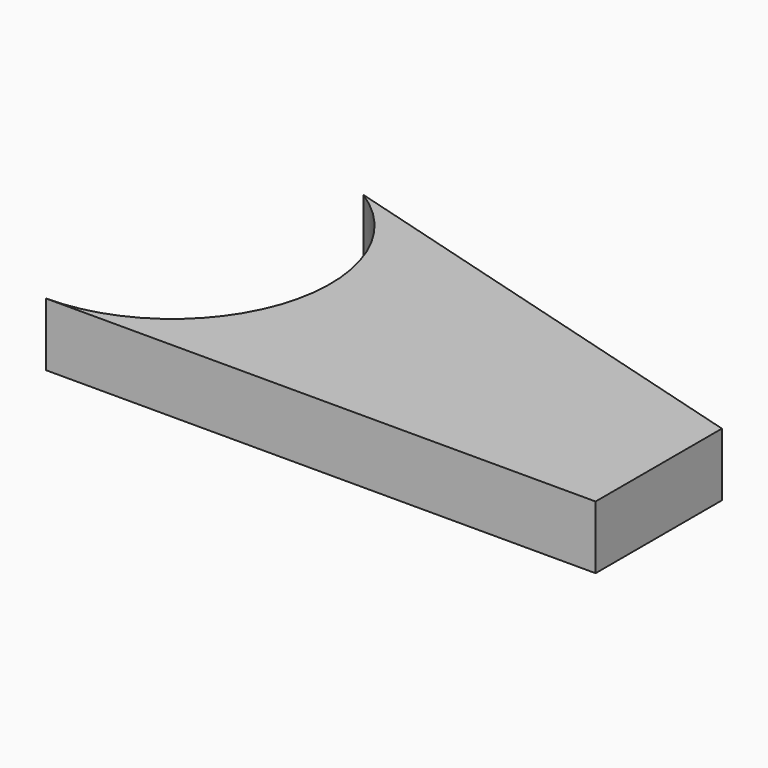
from build123d import *

# Parameters (mm, degrees)
F1_DEPTH = 5
F3_DEPTH = 25


with BuildPart() as f1:
    # F0 (on Top) → F1 (new body, symmetric)
    with BuildSketch(Plane.XY):
        Polygon((46.777236, -2.40973), (-40.222766, 22.59027), (-40.222766, -27.40973), (46.777236, -27.40973), align=None)
    extrude(amount=F1_DEPTH, both=True)

    # F2 (on face) → F3 (cut)
    with BuildSketch(Plane(origin=(0, 0, -5), x_dir=(1, 0, 0), z_dir=(0, 0, -1))):
        with BuildLine():
            Line((-40.222766, 27.40973), (-40.222766, -22.59027))
            Line((-40.222766, -22.59027), (-26.95086, -18.776504))
            ThreePointArc((-26.95086, -18.776504), (-16.195117, 9.314227), (-40.222766, 27.40973))
        make_face()
    extrude(amount=-F3_DEPTH, mode=Mode.SUBTRACT)


solid = f1.part
